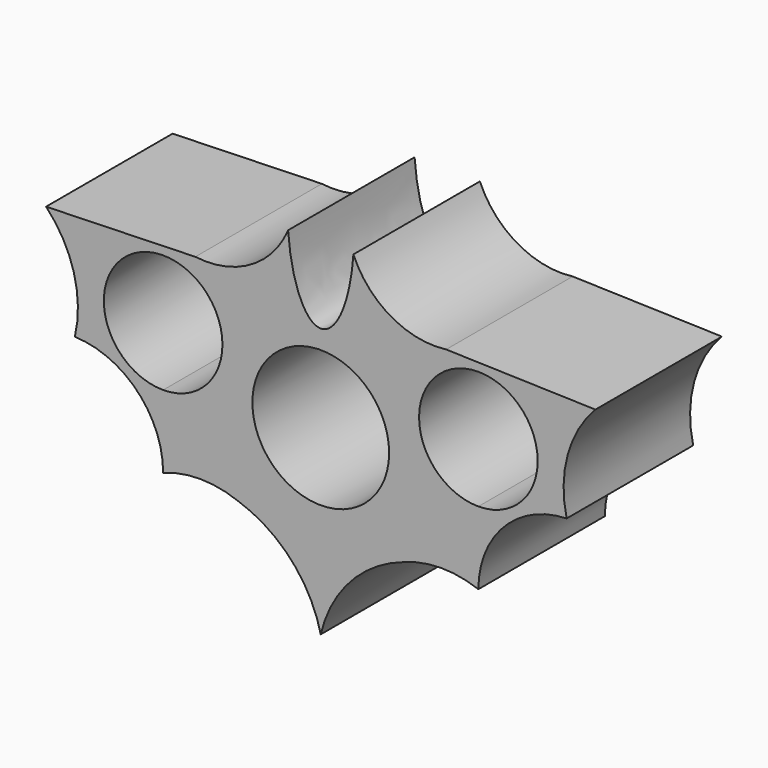
from build123d import *

# Parameters (mm, degrees)
F0_R     = 10.9855
F1_DEPTH = 25.4


with BuildPart() as f1:
    # F0 (on Front) → F1 (new body)
    with BuildSketch(Plane.XZ):
        with BuildLine():
            Line((44.12074, 16.901975), (20.145995, 17.604334))
            Line((20.145995, 17.604334), (23.131371, 15.880726))
            ThreePointArc((23.131371, 15.880726), (31.230244, 14.07893), (34.843798, 6.6103))
            ThreePointArc((34.843798, 6.6103), (32.05399, -0.124892), (25.318798, -2.9147))
            Line((25.318798, -2.9147), (25.318798, -14.617815))
            ThreePointArc((25.318798, -14.617815), (29.44571, -4.435593), (39.497305, 0))
            ThreePointArc((39.497305, 0), (39.657927, 9.039407), (44.12074, 16.901975))
        make_face()
        with BuildLine():
            Line((-23.131371, 15.880726), (-20.145995, 17.604334))
            Line((-20.145995, 17.604334), (-44.12074, 16.901975))
            ThreePointArc((-44.12074, 16.901975), (-39.657927, 9.039407), (-39.497305, 0))
            ThreePointArc((-39.497305, 0), (-29.44571, -4.435593), (-25.318798, -14.617815))
            Line((-25.318798, -14.617815), (-25.318798, -2.9147))
            ThreePointArc((-25.318798, -2.9147), (-34.77994, 7.711396), (-23.131371, 15.880726))
        make_face()
        with BuildLine():
            ThreePointArc((20.145995, 17.604334), (11.247841, 19.396708), (5.246522, 26.206549))
            add(Edge.make_bspline(
                [(-5.246522, 26.206549), (-4.375539, 14.018499), (0, 14.018499), (4.375539, 14.018499), (5.246522, 26.206549)],
                knots=[1.771192, 1.771192, 1.771192, 3.141593, 3.141593, 4.511993, 4.511993, 4.511993], degree=2, weights=[1, 0.774292, 1, 0.774292, 1]))
            ThreePointArc((-5.246522, 26.206549), (-11.247841, 19.396708), (-20.145995, 17.604334))
            Line((-20.145995, 17.604334), (-23.131371, 15.880726))
            ThreePointArc((-23.131371, 15.880726), (-17.850168, 12.521746), (-15.793798, 6.6103))
            ThreePointArc((-15.793798, 6.6103), (-18.583606, -0.124892), (-25.318798, -2.9147))
            Line((-25.318798, -2.9147), (-25.318798, -14.617815))
            ThreePointArc((-25.318798, -14.617815), (-19.310808, -13.551406), (-13.31532, -14.685998))
            ThreePointArc((-13.31532, -14.685998), (-4.759292, -20.223493), (0, -29.235629))
            ThreePointArc((0, -29.235629), (4.759292, -20.223493), (13.31532, -14.685998))
            ThreePointArc((13.31532, -14.685998), (19.310808, -13.551406), (25.318798, -14.617815))
            Line((25.318798, -14.617815), (25.318798, -2.9147))
            ThreePointArc((25.318798, -2.9147), (15.857655, 5.509205), (23.131371, 15.880726))
            Line((23.131371, 15.880726), (20.145995, 17.604334))
        make_face()
        Circle(F0_R, mode=Mode.SUBTRACT)
    extrude(amount=F1_DEPTH)


solid = f1.part
